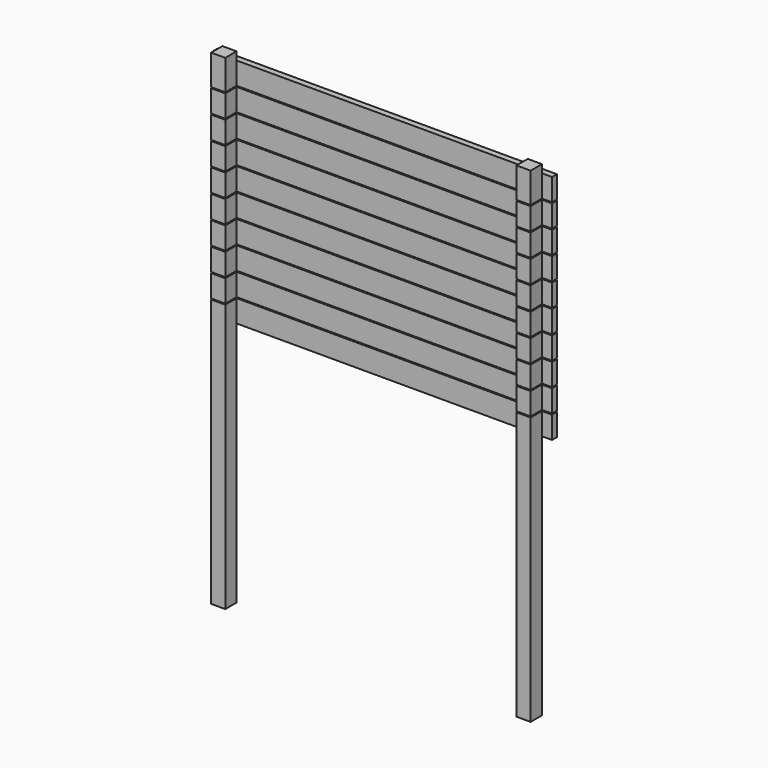
from build123d import *

# Parameters (mm, degrees)
F0_W     = 88.9
F0_H     = 914.4
F0_H_2   = 628.8184409082
F0_H_3   = 139.7
F1_DEPTH = 88.9
F0_H_4   = 50.6315590918
F0_H_5   = 50.5771776319
F0_H_6   = 914.45438146
F0_W_2   = 63.5
F0_W_3   = 1828.8
F2_DEPTH = 38.1


with BuildPart() as f1:
    # F0 (on Front) → F1 (new body)
    with BuildSketch(Plane.XZ):
        with Locations((-114.2183623821, -1000.705572027)):
            Rectangle(F0_W, F0_H)
        with Locations((-114.2183623821, -229.0963515729)):
            Rectangle(F0_W, F0_H_2)
        with Locations((-114.2183623821, 155.1628688812)):
            Rectangle(F0_W, F0_H_3)
    extrude(amount=F1_DEPTH)


with BuildPart() as f1b:
    # F0 (on Front) → F1, piece 2 (new body)
    with BuildSketch(Plane.XZ):
        with Locations((-114.2183623821, 301.2128688812)):
            Rectangle(F0_W, F0_H_3)
    extrude(amount=F1_DEPTH)


with BuildPart() as f1c:
    # F0 (on Front) → F1, piece 3 (new body)
    with BuildSketch(Plane.XZ):
        with Locations((-114.2183623821, 447.2628688812)):
            Rectangle(F0_W, F0_H_3)
    extrude(amount=F1_DEPTH)


with BuildPart() as f1d:
    # F0 (on Front) → F1, piece 4 (new body)
    with BuildSketch(Plane.XZ):
        with Locations((-114.2183623821, 593.3128688812)):
            Rectangle(F0_W, F0_H_3)
    extrude(amount=F1_DEPTH)


with BuildPart() as f1e:
    # F0 (on Front) → F1, piece 5 (new body)
    with BuildSketch(Plane.XZ):
        with Locations((-114.2183623821, 739.3628688812)):
            Rectangle(F0_W, F0_H_3)
    extrude(amount=F1_DEPTH)


with BuildPart() as f1f:
    # F0 (on Front) → F1, piece 6 (new body)
    with BuildSketch(Plane.XZ):
        with Locations((-114.2183623821, 885.4128688812)):
            Rectangle(F0_W, F0_H_3)
    extrude(amount=F1_DEPTH)


with BuildPart() as f1g:
    # F0 (on Front) → F1, piece 7 (new body)
    with BuildSketch(Plane.XZ):
        with Locations((-114.2183623821, 1031.4628688812)):
            Rectangle(F0_W, F0_H_3)
    extrude(amount=F1_DEPTH)


with BuildPart() as f1h:
    # F0 (on Front) → F1, piece 8 (new body)
    with BuildSketch(Plane.XZ):
        with Locations((-114.2183623821, 1177.5128688812)):
            Rectangle(F0_W, F0_H_3)
    extrude(amount=F1_DEPTH)


with BuildPart() as f1i:
    # F0 (on Front) → F1, piece 9 (new body)
    with BuildSketch(Plane.XZ):
        with Locations((-114.2183623821, 1323.5628688812)):
            Rectangle(F0_W, F0_H_3)
    extrude(amount=F1_DEPTH)


with BuildPart() as f1j:
    # F0 (on Front) → F1, piece 10 (new body)
    with BuildSketch(Plane.XZ):
        with Locations((-114.2183623821, 1469.6128688812)):
            Rectangle(F0_W, F0_H_3)
        with Locations((-114.2183623821, 1564.7786484271)):
            Rectangle(F0_W, F0_H_4)
    extrude(amount=F1_DEPTH)


with BuildPart() as f1k:
    # F0 (on Front) → F1, piece 11 (new body)
    with BuildSketch(Plane.XZ):
        with Locations((1803.4816376179, 1564.7514576972)):
            Rectangle(F0_W, F0_H_5)
        with Locations((1803.4816376179, 1469.6128688812)):
            Rectangle(F0_W, F0_H_3)
    extrude(amount=F1_DEPTH)


with BuildPart() as f1l:
    # F0 (on Front) → F1, piece 12 (new body)
    with BuildSketch(Plane.XZ):
        with Locations((1803.4816376179, 1323.5628688812)):
            Rectangle(F0_W, F0_H_3)
    extrude(amount=F1_DEPTH)


with BuildPart() as f1m:
    # F0 (on Front) → F1, piece 13 (new body)
    with BuildSketch(Plane.XZ):
        with Locations((1803.4816376179, 1177.5128688812)):
            Rectangle(F0_W, F0_H_3)
    extrude(amount=F1_DEPTH)


with BuildPart() as f1n:
    # F0 (on Front) → F1, piece 14 (new body)
    with BuildSketch(Plane.XZ):
        with Locations((1803.4816376179, 1031.4628688812)):
            Rectangle(F0_W, F0_H_3)
    extrude(amount=F1_DEPTH)


with BuildPart() as f1o:
    # F0 (on Front) → F1, piece 15 (new body)
    with BuildSketch(Plane.XZ):
        with Locations((1803.4816376179, 885.4128688812)):
            Rectangle(F0_W, F0_H_3)
    extrude(amount=F1_DEPTH)


with BuildPart() as f1p:
    # F0 (on Front) → F1, piece 16 (new body)
    with BuildSketch(Plane.XZ):
        with Locations((1803.4816376179, 739.3628688812)):
            Rectangle(F0_W, F0_H_3)
    extrude(amount=F1_DEPTH)


with BuildPart() as f1q:
    # F0 (on Front) → F1, piece 17 (new body)
    with BuildSketch(Plane.XZ):
        with Locations((1803.4816376179, 593.3128688812)):
            Rectangle(F0_W, F0_H_3)
    extrude(amount=F1_DEPTH)


with BuildPart() as f1r:
    # F0 (on Front) → F1, piece 18 (new body)
    with BuildSketch(Plane.XZ):
        with Locations((1803.4816376179, 447.2628688812)):
            Rectangle(F0_W, F0_H_3)
    extrude(amount=F1_DEPTH)


with BuildPart() as f1s:
    # F0 (on Front) → F1, piece 19 (new body)
    with BuildSketch(Plane.XZ):
        with Locations((1803.4816376179, 301.2128688812)):
            Rectangle(F0_W, F0_H_3)
    extrude(amount=F1_DEPTH)


with BuildPart() as f1t:
    # F0 (on Front) → F1, piece 20 (new body)
    with BuildSketch(Plane.XZ):
        with Locations((1803.4816376179, 155.1628688812)):
            Rectangle(F0_W, F0_H_3)
        with Locations((1803.4816376179, -229.0963515729)):
            Rectangle(F0_W, F0_H_2)
        with Locations((1803.4816376179, -1000.7327627569)):
            Rectangle(F0_W, F0_H_6)
    extrude(amount=F1_DEPTH)


with BuildPart() as f2:
    # F0 (on Front) → F2 (new body)
    with BuildSketch(Plane.XZ):
        with Locations((-190.4183623821, 1469.6128688812)):
            Rectangle(F0_W_2, F0_H_3)
        with Locations((844.6316376179, 1469.6128688812)):
            Rectangle(F0_W_3, F0_H_3)
        with Locations((-114.2183623821, 1469.6128688812)):
            Rectangle(F0_W, F0_H_3)
        with Locations((1803.4816376179, 1469.6128688812)):
            Rectangle(F0_W, F0_H_3)
        with Locations((1879.6816376179, 1469.6128688812)):
            Rectangle(F0_W_2, F0_H_3)
    extrude(amount=-F2_DEPTH)


with BuildPart() as f2b:
    # F0 (on Front) → F2, piece 2 (new body)
    with BuildSketch(Plane.XZ):
        with Locations((-190.4183623821, 1323.5628688812)):
            Rectangle(F0_W_2, F0_H_3)
        with Locations((-114.2183623821, 1323.5628688812)):
            Rectangle(F0_W, F0_H_3)
        with Locations((844.6316376179, 1323.5628688812)):
            Rectangle(F0_W_3, F0_H_3)
        with Locations((1803.4816376179, 1323.5628688812)):
            Rectangle(F0_W, F0_H_3)
        with Locations((1879.6816376179, 1323.5628688812)):
            Rectangle(F0_W_2, F0_H_3)
    extrude(amount=-F2_DEPTH)


with BuildPart() as f2c:
    # F0 (on Front) → F2, piece 3 (new body)
    with BuildSketch(Plane.XZ):
        with Locations((-190.4183623821, 1177.5128688812)):
            Rectangle(F0_W_2, F0_H_3)
        with Locations((-114.2183623821, 1177.5128688812)):
            Rectangle(F0_W, F0_H_3)
        with Locations((844.6316376179, 1177.5128688812)):
            Rectangle(F0_W_3, F0_H_3)
        with Locations((1803.4816376179, 1177.5128688812)):
            Rectangle(F0_W, F0_H_3)
        with Locations((1879.6816376179, 1177.5128688812)):
            Rectangle(F0_W_2, F0_H_3)
    extrude(amount=-F2_DEPTH)


with BuildPart() as f2d:
    # F0 (on Front) → F2, piece 4 (new body)
    with BuildSketch(Plane.XZ):
        with Locations((-190.4183623821, 1031.4628688812)):
            Rectangle(F0_W_2, F0_H_3)
        with Locations((-114.2183623821, 1031.4628688812)):
            Rectangle(F0_W, F0_H_3)
        with Locations((844.6316376179, 1031.4628688812)):
            Rectangle(F0_W_3, F0_H_3)
        with Locations((1803.4816376179, 1031.4628688812)):
            Rectangle(F0_W, F0_H_3)
        with Locations((1879.6816376179, 1031.4628688812)):
            Rectangle(F0_W_2, F0_H_3)
    extrude(amount=-F2_DEPTH)


with BuildPart() as f2e:
    # F0 (on Front) → F2, piece 5 (new body)
    with BuildSketch(Plane.XZ):
        with Locations((-190.4183623821, 885.4128688812)):
            Rectangle(F0_W_2, F0_H_3)
        with Locations((-114.2183623821, 885.4128688812)):
            Rectangle(F0_W, F0_H_3)
        with Locations((844.6316376179, 885.4128688812)):
            Rectangle(F0_W_3, F0_H_3)
        with Locations((1803.4816376179, 885.4128688812)):
            Rectangle(F0_W, F0_H_3)
        with Locations((1879.6816376179, 885.4128688812)):
            Rectangle(F0_W_2, F0_H_3)
    extrude(amount=-F2_DEPTH)


with BuildPart() as f2f:
    # F0 (on Front) → F2, piece 6 (new body)
    with BuildSketch(Plane.XZ):
        with Locations((-190.4183623821, 739.3628688812)):
            Rectangle(F0_W_2, F0_H_3)
        with Locations((-114.2183623821, 739.3628688812)):
            Rectangle(F0_W, F0_H_3)
        with Locations((844.6316376179, 739.3628688812)):
            Rectangle(F0_W_3, F0_H_3)
        with Locations((1803.4816376179, 739.3628688812)):
            Rectangle(F0_W, F0_H_3)
        with Locations((1879.6816376179, 739.3628688812)):
            Rectangle(F0_W_2, F0_H_3)
    extrude(amount=-F2_DEPTH)


with BuildPart() as f2g:
    # F0 (on Front) → F2, piece 7 (new body)
    with BuildSketch(Plane.XZ):
        with Locations((-190.4183623821, 593.3128688812)):
            Rectangle(F0_W_2, F0_H_3)
        with Locations((844.6316376179, 593.3128688812)):
            Rectangle(F0_W_3, F0_H_3)
        with Locations((-114.2183623821, 593.3128688812)):
            Rectangle(F0_W, F0_H_3)
        with Locations((1803.4816376179, 593.3128688812)):
            Rectangle(F0_W, F0_H_3)
        with Locations((1879.6816376179, 593.3128688812)):
            Rectangle(F0_W_2, F0_H_3)
    extrude(amount=-F2_DEPTH)


with BuildPart() as f2h:
    # F0 (on Front) → F2, piece 8 (new body)
    with BuildSketch(Plane.XZ):
        with Locations((-190.4183623821, 447.2628688812)):
            Rectangle(F0_W_2, F0_H_3)
        with Locations((-114.2183623821, 447.2628688812)):
            Rectangle(F0_W, F0_H_3)
        with Locations((844.6316376179, 447.2628688812)):
            Rectangle(F0_W_3, F0_H_3)
        with Locations((1803.4816376179, 447.2628688812)):
            Rectangle(F0_W, F0_H_3)
        with Locations((1879.6816376179, 447.2628688812)):
            Rectangle(F0_W_2, F0_H_3)
    extrude(amount=-F2_DEPTH)


with BuildPart() as f2i:
    # F0 (on Front) → F2, piece 9 (new body)
    with BuildSketch(Plane.XZ):
        with Locations((-190.4183623821, 301.2128688812)):
            Rectangle(F0_W_2, F0_H_3)
        with Locations((-114.2183623821, 301.2128688812)):
            Rectangle(F0_W, F0_H_3)
        with Locations((844.6316376179, 301.2128688812)):
            Rectangle(F0_W_3, F0_H_3)
        with Locations((1803.4816376179, 301.2128688812)):
            Rectangle(F0_W, F0_H_3)
        with Locations((1879.6816376179, 301.2128688812)):
            Rectangle(F0_W_2, F0_H_3)
    extrude(amount=-F2_DEPTH)


with BuildPart() as f2j:
    # F0 (on Front) → F2, piece 10 (new body)
    with BuildSketch(Plane.XZ):
        with Locations((-190.4183623821, 155.1628688812)):
            Rectangle(F0_W_2, F0_H_3)
        with Locations((-114.2183623821, 155.1628688812)):
            Rectangle(F0_W, F0_H_3)
        with Locations((844.6316376179, 155.1628688812)):
            Rectangle(F0_W_3, F0_H_3)
        with Locations((1803.4816376179, 155.1628688812)):
            Rectangle(F0_W, F0_H_3)
        with Locations((1879.6816376179, 155.1628688812)):
            Rectangle(F0_W_2, F0_H_3)
    extrude(amount=-F2_DEPTH)


solid = Compound([f1.part, f1b.part, f1c.part, f1d.part, f1e.part, f1f.part, f1g.part, f1h.part, f1i.part, f1j.part, f1k.part, f1l.part, f1m.part, f1n.part, f1o.part, f1p.part, f1q.part, f1r.part, f1s.part, f1t.part, f2.part, f2b.part, f2c.part, f2d.part, f2e.part, f2f.part, f2g.part, f2h.part, f2i.part, f2j.part])
